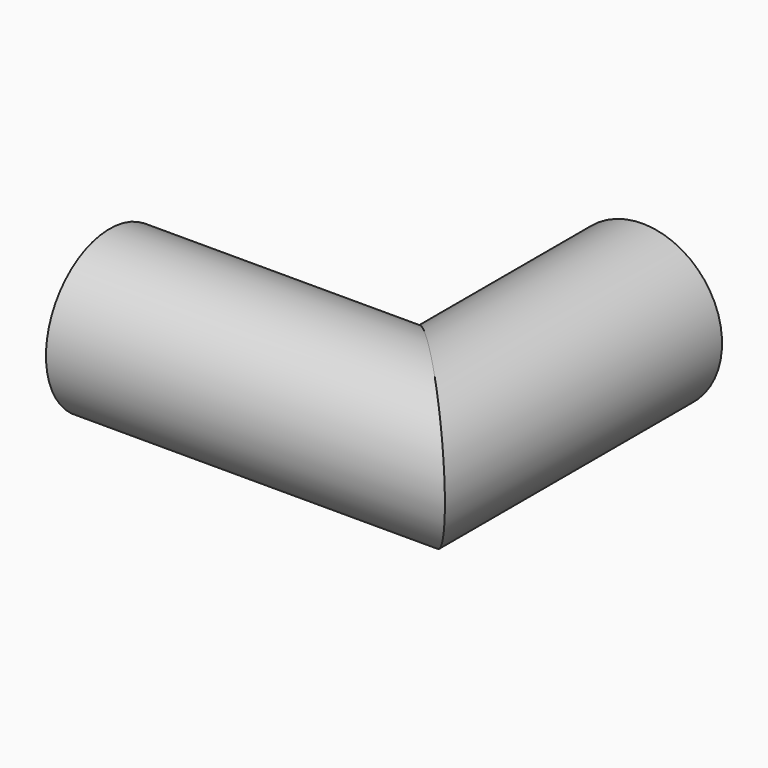
from build123d import *

# Parameters (mm, degrees)
F1_R = 15.24


with BuildPart() as f2:
    # F2: sweep along a path in F0
    with BuildLine(Plane.XY) as f2_path:
        Line((-60.0315108895, -49.9902069569), (0, -49.9902069569))
        Line((0, -49.9902069569), (0, 0))
    # F1 (on Right) → F2 (sweep)
    with BuildSketch(Plane.YZ):
        with Locations((-51.1064113455, 0)):
            Circle(F1_R)
    sweep(path=f2_path.line, transition=Transition.RIGHT)


solid = f2.part
